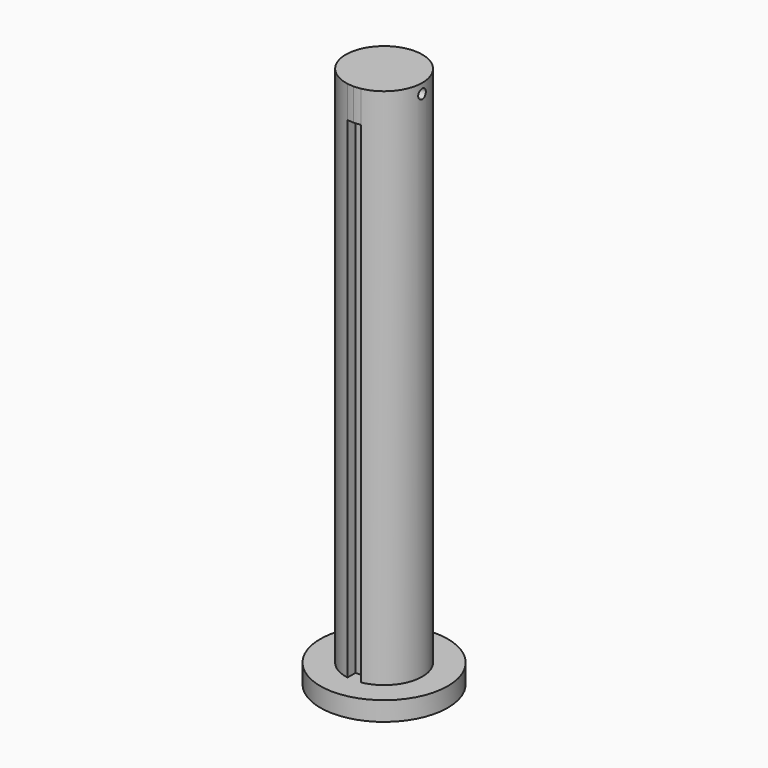
from build123d import *

# Parameters (mm, degrees)
F1_DEPTH = 85
F0_R     = 10
F2_DEPTH = 3
F3_R     = 0.75
F4_DEPTH = 15
F5_START = 3
F5_DEPTH = 77


with BuildPart() as f1:
    # F0 (on Top) → F1 (new body)
    with BuildSketch(Plane.XY):
        with BuildLine():
            Line((-1.0081231615, -4.3175521048), (-1.0081231615, -5.9147009807))
            ThreePointArc((-1.0081231615, -5.9147009807), (-0.5058626868, -5.9786372145), (0, -6))
            Line((0, -6), (0, -4.3175521048))
            Line((0, -4.3175521048), (-1.0081231615, -4.3175521048))
        make_face()
        with BuildLine():
            ThreePointArc((0, -6), (0.5482317643, -5.9749009977), (1.0918768385, -5.8998139775))
            Line((1.0918768385, -5.8998139775), (1.0918768385, -4.3175521048))
            Line((1.0918768385, -4.3175521048), (0, -4.3175521048))
            Line((0, -4.3175521048), (0, -6))
        make_face()
        with BuildLine():
            ThreePointArc((1.0918768385, -5.8998139775), (4.6125514106, -3.8372346142), (6, 0))
            ThreePointArc((6, 0), (-3.8698359804, 4.5852338528), (-1.0081231615, -5.9147009807))
            Line((-1.0081231615, -5.9147009807), (-1.0081231615, -4.3175521048))
            Line((-1.0081231615, -4.3175521048), (0, -4.3175521048))
            Line((0, -4.3175521048), (1.0918768385, -4.3175521048))
            Line((1.0918768385, -4.3175521048), (1.0918768385, -5.8998139775))
        make_face()
        with BuildLine():
            ThreePointArc((1.0918768385, -5.8998139775), (4.6125514106, -3.8372346142), (6, 0))
            ThreePointArc((6, 0), (-3.8698359804, 4.5852338528), (-1.0081231615, -5.9147009807))
            Line((-1.0081231615, -5.9147009807), (-1.0081231615, -4.3175521048))
            Line((-1.0081231615, -4.3175521048), (0, -4.3175521048))
            Line((0, -4.3175521048), (1.0918768385, -4.3175521048))
            Line((1.0918768385, -4.3175521048), (1.0918768385, -5.8998139775))
        make_face()
    extrude(amount=F1_DEPTH)

    # F0 (on Top) → F2 (join)
    with BuildSketch(Plane.XY):
        Circle(F0_R)
        with BuildLine():
            ThreePointArc((-1.0081231615, -5.9147009807), (-3.8698359804, 4.5852338528), (6, 0))
            ThreePointArc((6, 0), (4.6125514106, -3.8372346142), (1.0918768385, -5.8998139775))
            ThreePointArc((1.0918768385, -5.8998139775), (0.5482317643, -5.9749009977), (0, -6))
            ThreePointArc((0, -6), (-0.5058626868, -5.9786372145), (-1.0081231615, -5.9147009807))
        make_face(mode=Mode.SUBTRACT)
    extrude(amount=F2_DEPTH)

    # F3 (on Right) → F4 (cut, symmetric)
    with BuildSketch(Plane.YZ):
        with Locations((0, 83.4703872204)):
            Circle(F3_R)
    extrude(amount=F4_DEPTH, both=True, mode=Mode.SUBTRACT)

    # F0 (on Top) → F5 (cut)
    with BuildSketch(Plane.XY.offset(F5_START)):
        with BuildLine():
            Line((-1.0081231615, -4.3175521048), (-1.0081231615, -5.9147009807))
            ThreePointArc((-1.0081231615, -5.9147009807), (-0.5058626868, -5.9786372145), (0, -6))
            Line((0, -6), (0, -4.3175521048))
            Line((0, -4.3175521048), (-1.0081231615, -4.3175521048))
        make_face()
        with BuildLine():
            ThreePointArc((0, -6), (0.5482317643, -5.9749009977), (1.0918768385, -5.8998139775))
            Line((1.0918768385, -5.8998139775), (1.0918768385, -4.3175521048))
            Line((1.0918768385, -4.3175521048), (0, -4.3175521048))
            Line((0, -4.3175521048), (0, -6))
        make_face()
    extrude(amount=F5_DEPTH, mode=Mode.SUBTRACT)


solid = f1.part
